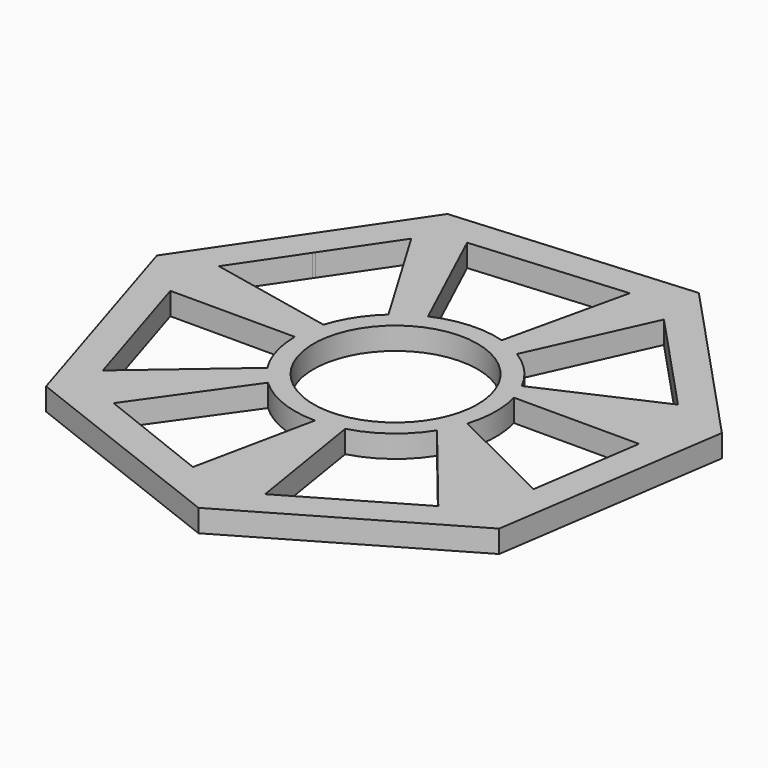
from build123d import *

# Parameters (mm, degrees)
F0_R     = 11
F1_DEPTH = 3


with BuildPart() as f1:
    # F0 (on Top) → F1 (new body)
    with BuildSketch(Plane.XY):
        Polygon((2.837694, -36.586455), (30.374383, -20.59339), (35.037605, 10.907431), (13.317207, 34.194158), (-18.431472, 31.732385), (-36.30111, 5.374778), (-26.83544, -25.029966), align=None)
        with BuildLine():
            Line((-18.923725, -23.596064), (-9.207349, -9.872929))
            ThreePointArc((-9.207349, -9.872929), (-4.948002, -12.560544), (0, -13.5))
            Line((0, -13.5), (-3.394976, -29.72536))
            Line((-3.394976, -29.72536), (-18.923725, -23.596064))
        make_face(mode=Mode.SUBTRACT)
        with BuildLine():
            Line((-24.433495, -18.516342), (-30.198042, 0))
            Line((-30.198042, 0), (-13.5, 0))
            ThreePointArc((-13.5, 0), (-12.954259, -3.799627), (-11.361161, -7.292052))
            Line((-11.361161, -7.292052), (-24.433495, -18.516342))
        make_face(mode=Mode.SUBTRACT)
        with BuildLine():
            Line((22.20563, -20.59339), (6.35273, -29.800614))
            Line((6.35273, -29.800614), (3.645024, -12.998608))
            ThreePointArc((3.645024, -12.998608), (8.03763, -10.846498), (11.37502, -7.270413))
            Line((11.37502, -7.270413), (22.20563, -20.59339))
        make_face(mode=Mode.SUBTRACT)
        with BuildLine():
            Line((29.802458, 3.559528), (27.591791, -11.373886))
            Line((27.591791, -11.373886), (12.876009, -4.056895))
            ThreePointArc((12.876009, -4.056895), (13.497511, -0.259214), (13.022279, 3.559528))
            Line((13.022279, 3.559528), (29.802458, 3.559528))
        make_face(mode=Mode.SUBTRACT)
        with BuildLine():
            Line((-23.782364, 16.302376), (-17.888175, 24.996269))
            Line((-17.888175, 24.996269), (-9.005221, 10.057634))
            ThreePointArc((-9.005221, 10.057634), (-11.35498, 7.301672), (-12.887512, 4.020203))
            Line((-12.887512, 4.020203), (-29.721297, 7.542486))
            Line((-29.721297, 7.542486), (-23.948342, 16.057559))
            Line((-23.948342, 16.057559), (-23.782364, 16.302376))
        make_face(mode=Mode.SUBTRACT)
        with BuildLine():
            Line((-12.75861, 27.945212), (7.703053, 29.626006))
            Line((7.703053, 29.626006), (3.895945, 12.925618))
            ThreePointArc((3.895945, 12.925618), (-0.85982, 13.472591), (-5.507469, 12.325493))
            Line((-5.507469, 12.325493), (-12.75861, 27.945212))
        make_face(mode=Mode.SUBTRACT)
        Circle(F0_R, mode=Mode.SUBTRACT)
        with BuildLine():
            Line((14.222467, 27.209421), (27.425496, 13.054278))
            Line((27.425496, 13.054278), (12.024924, 6.136058))
            ThreePointArc((12.024924, 6.136058), (9.926723, 9.149326), (7.094178, 11.485758))
            Line((7.094178, 11.485758), (14.222467, 27.209421))
        make_face(mode=Mode.SUBTRACT)
    extrude(amount=F1_DEPTH)


solid = f1.part
